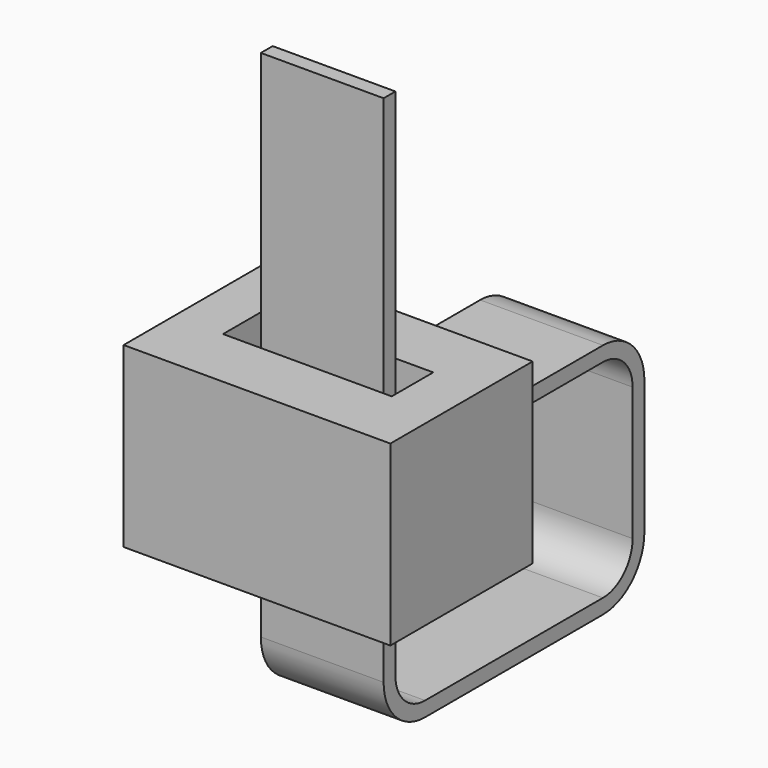
from build123d import *

# Parameters (mm, degrees)
F0_W     = 5.08
F0_H     = 5.08
F1_DEPTH = 3.81
F3_W     = 3.506887937
F3_H     = 0.4214280925
F5_W     = 4.8186806962
F5_H     = 1.4827313134
F5_W_2   = 3.506887937
F5_H_2   = 0.4214280925
F6_DEPTH = 5.08


with BuildPart() as f1:
    # F0 (on Right) → F1 (new body, symmetric)
    with BuildSketch(Plane.YZ):
        Rectangle(F0_W, F0_H)
    extrude(amount=F1_DEPTH, both=True)

    # F4: sweep along a path in F2
    with BuildLine(Plane.YZ) as f4_path:
        Line((2.54, 0), (7.62, 0))
        ThreePointArc((7.62, 0), (8.5180256121, -0.3719743879), (8.89, -1.27))
        Line((8.89, -1.27), (8.89, -5.08))
        ThreePointArc((8.89, -5.08), (8.5180256121, -5.9780256121), (7.62, -6.35))
        Line((7.62, -6.35), (1.27, -6.35))
        ThreePointArc((1.27, -6.35), (0.3719743879, -5.9780256121), (0, -5.08))
        Line((0, -5.08), (0, 9.6079269424))
    # F3 (on face) → F4 (sweep)
    with BuildSketch(Plane(origin=(0, 2.54, 0), x_dir=(-1, 0, 0), z_dir=(0, 1, 0))):
        Rectangle(F3_W, F3_H)
    sweep(path=f4_path.line)

    # F5 (on face) → F6 (cut, through all)
    with BuildSketch(Plane(origin=(0, 0, -2.54), x_dir=(1, 0, 0), z_dir=(0, 0, -1))):
        Rectangle(F5_W, F5_H)
        Rectangle(F5_W_2, F5_H_2, mode=Mode.SUBTRACT)
    extrude(amount=-F6_DEPTH, mode=Mode.SUBTRACT)


solid = f1.part
